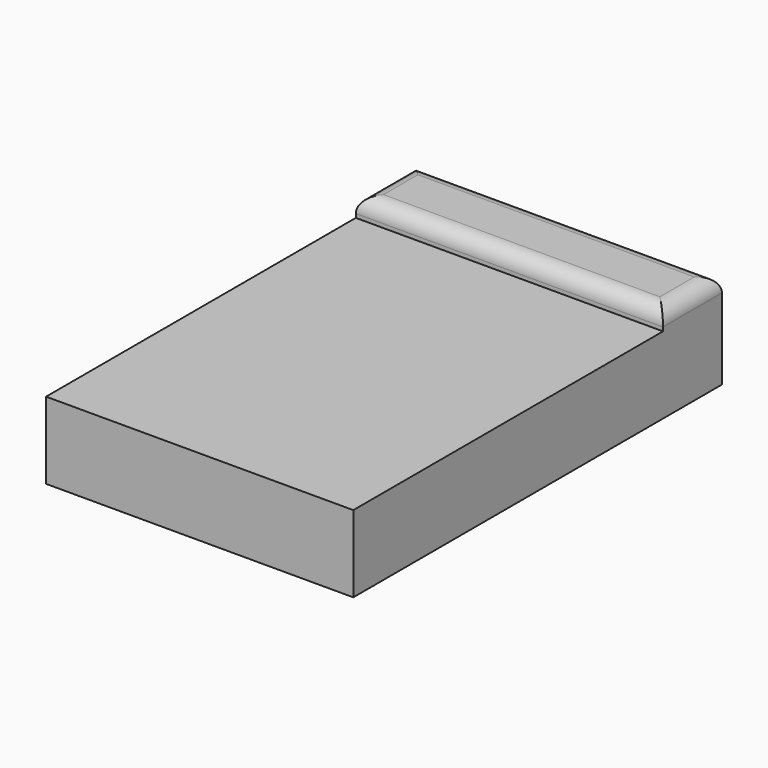
from build123d import *

# Parameters (mm, degrees)
F0_W     = 101.6
F0_H     = 152.4
F1_DEPTH = 25.4
F3_DEPTH = 6.35
F2_W     = 51.8073203593
F2_H     = 24.3617037889
F4_DEPTH = 6.35
F5_R     = 5.08


with BuildPart() as f1:
    # F0 (on Top) → F1 (new body)
    with BuildSketch(Plane.XY):
        with Locations((1.0073203593, 31.0641650792)):
            Rectangle(F0_W, F0_H)
    extrude(amount=F1_DEPTH)

    # F2 (on face) → F3 (join)
    with BuildSketch(Plane.XY.offset(25.4)):
        Polygon((-49.7926796407, 107.2641650792), (-49.7926796407, 82.9024612904), (-8.9114280418, 82.9024612904), (0, 82.9024612904), (0, 107.2641650792), align=None)
    extrude(amount=F3_DEPTH)

    # F2 (on face) → F4 (join)
    with BuildSketch(Plane.XY.offset(25.4)):
        with Locations((25.9036601797, 95.0833131848)):
            Rectangle(F2_W, F2_H)
    extrude(amount=F4_DEPTH)

    # F5
    f5_edges = [f1.edges().sort_by_distance(p)[0] for p in [
        (-49.79268, 95.083313, 31.75),
        (1.00732, 82.902461, 31.75),
        (51.80732, 95.083313, 31.75),
        (1.00732, 107.264165, 31.75),
    ]]
    fillet(f5_edges, radius=F5_R)


solid = f1.part
